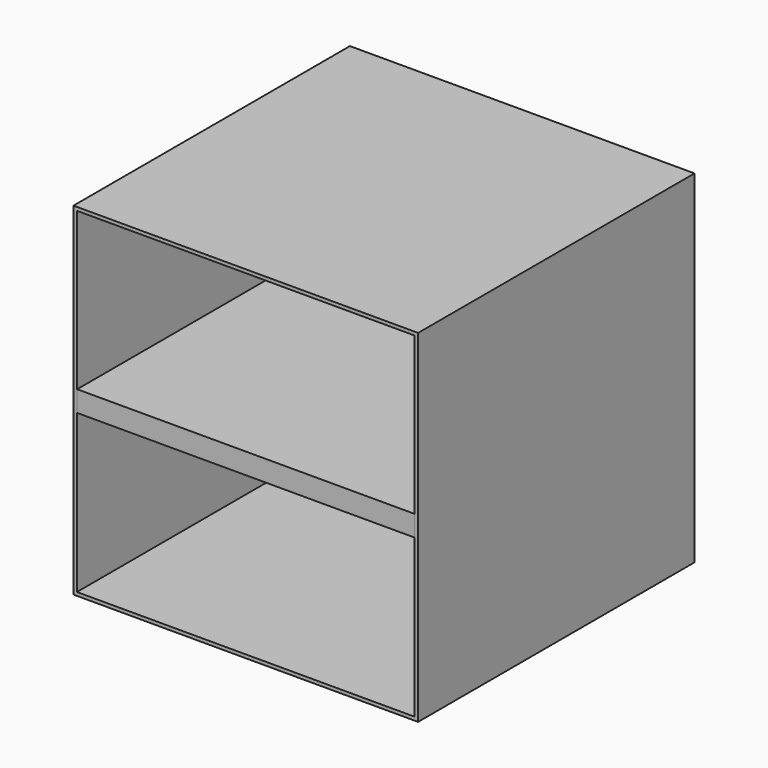
from build123d import *

# Parameters (mm, degrees)
F0_W     = 255.5983066559
F0_H     = 256.2570720911
F1_DEPTH = 254
F2_T     = -2.54
F4_DEPTH = 253.492


with BuildPart() as f1:
    # F0 (on Top) → F1 (new body)
    with BuildSketch(Plane.XY):
        with Locations((-22.7167755365, -10.7608214021)):
            Rectangle(F0_W, F0_H)
    extrude(amount=F1_DEPTH)

    # F2
    f2_openings = [f1.faces().sort_by_distance(p)[0] for p in [
        (-22.716776, -138.889357, 127),
    ]]
    offset(amount=F2_T, openings=f2_openings)

    # F3 (on face) → F4 (join)
    with BuildSketch(Plane.XZ.offset(-114.8277146435)):
        Polygon((102.5423777914, 119.3862035871), (102.5423777914, 127), (102.5423777914, 134.8422765732), (-147.9759288645, 134.8422765732), (-147.9759288645, 119.3862035871), align=None)
        Polygon((102.5423777914, 119.3862035871), (102.5423777914, 127), (102.5423777914, 134.8422765732), (-147.9759288645, 134.8422765732), (-147.9759288645, 119.3862035871), align=None)
    extrude(amount=F4_DEPTH)


solid = f1.part
